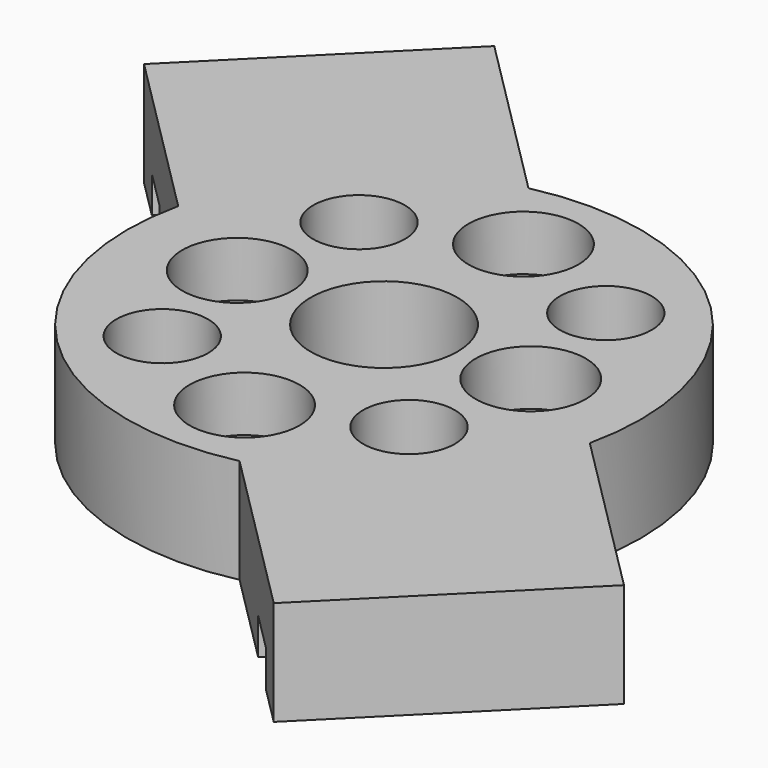
from build123d import *

# Parameters (mm, degrees)
F0_R     = 14
F0_R_2   = 2.5
F0_R_3   = 1.5
F0_R_4   = 4
F1_DEPTH = 5.7
F2_R     = 3
F2_R_2   = 1.5
F3_DEPTH = 3
F5_DEPTH = 5.7
F7_DEPTH = 2


with BuildPart() as f1:
    # F0 (on Top) → F1 (new body)
    with BuildSketch(Plane.XY):
        Circle(F0_R)
        with Locations((-6.707044, -6.727968)):
            Circle(F0_R_2, mode=Mode.SUBTRACT)
        with Locations((0, -9.5)):
            Circle(F0_R_3, mode=Mode.SUBTRACT)
        with Locations((6.727968, -6.707044)):
            Circle(F0_R_2, mode=Mode.SUBTRACT)
        with Locations((-8, 0)):
            Circle(F0_R_3, mode=Mode.SUBTRACT)
        with Locations((-6.727968, 6.707044)):
            Circle(F0_R_2, mode=Mode.SUBTRACT)
        Circle(F0_R_4, mode=Mode.SUBTRACT)
        with Locations((6.707044, 6.727968)):
            Circle(F0_R_2, mode=Mode.SUBTRACT)
        with Locations((8, 0)):
            Circle(F0_R_3, mode=Mode.SUBTRACT)
        with Locations((0, 9.5)):
            Circle(F0_R_3, mode=Mode.SUBTRACT)
    extrude(amount=F1_DEPTH)

    # F2 (on face) → F3 (cut)
    with BuildSketch(Plane.XY.offset(5.7)):
        with Locations((0, 9.5)):
            Circle(F2_R)
        with Locations((0, 9.5)):
            Circle(F2_R_2, mode=Mode.SUBTRACT)
        with Locations((-8, 0)):
            Circle(F2_R)
        with Locations((-8, 0)):
            Circle(F2_R_2, mode=Mode.SUBTRACT)
        with Locations((0, -9.5)):
            Circle(F2_R)
        with Locations((0, -9.5)):
            Circle(F2_R_2, mode=Mode.SUBTRACT)
        with Locations((8, 0)):
            Circle(F2_R)
        with Locations((8, 0)):
            Circle(F2_R_2, mode=Mode.SUBTRACT)
    extrude(amount=-F3_DEPTH, mode=Mode.SUBTRACT)

    # F4 (on face) → F5 (join)
    with BuildSketch(Plane.XY.offset(5.7)):
        with BuildLine():
            Line((-22.98097, 12.374369), (-13.662428, 3.055826))
            ThreePointArc((-13.662428, 3.055826), (-9.899495, 9.899495), (-3.055826, 13.662428))
            Line((-3.055826, 13.662428), (-12.374369, 22.98097))
            Line((-12.374369, 22.98097), (-22.98097, 12.374369))
        make_face()
        with BuildLine():
            Line((12.374369, -22.98097), (22.98097, -12.374369))
            Line((22.98097, -12.374369), (13.662428, -3.055826))
            ThreePointArc((13.662428, -3.055826), (9.899495, -9.899495), (3.055826, -13.662428))
            Line((3.055826, -13.662428), (12.374369, -22.98097))
        make_face()
    extrude(amount=-F5_DEPTH)

    # F6 (on face) → F7 (cut)
    with BuildSketch(Plane(origin=(0, 0, 0), x_dir=(1, 0, 0), z_dir=(0, 0, -1))):
        Polygon((-8.131728, -18.73833), (-18.73833, -8.131728), (-20.85965, -10.253048), (-10.253048, -20.85965), align=None)
        Polygon((20.85965, 10.253048), (10.253048, 20.85965), (8.131728, 18.73833), (18.73833, 8.131728), align=None)
    extrude(amount=-F7_DEPTH, mode=Mode.SUBTRACT)


solid = f1.part
